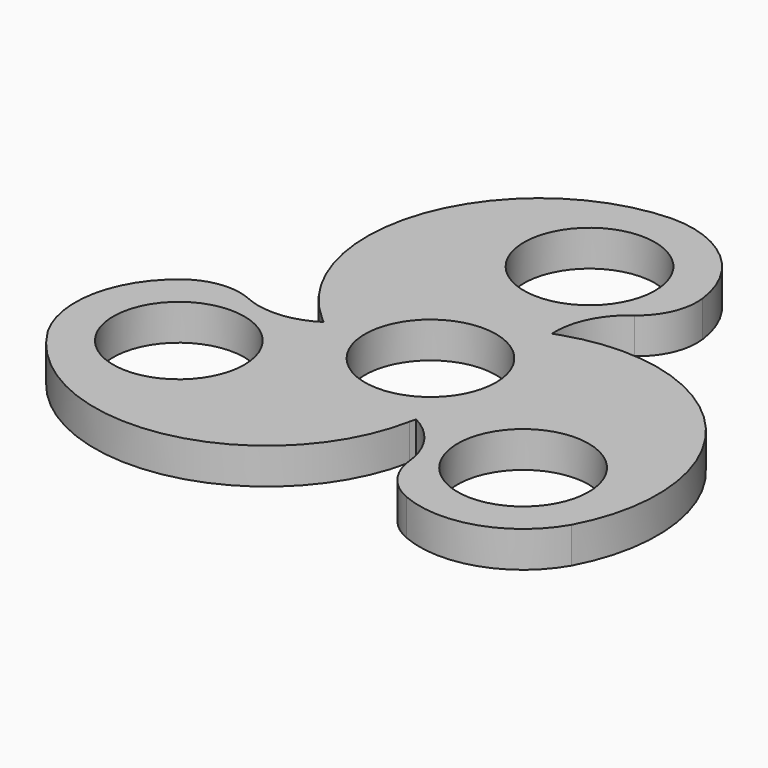
from build123d import *

# Parameters (mm, degrees)
F0_R     = 10.925
F1_DEPTH = 6


with BuildPart() as f1:
    # F0 (on Top) → F1 (new body)
    with BuildSketch(Plane.XY):
        with BuildLine():
            ThreePointArc((13.190539, 26.03913), (16.408651, 30.139565), (17.126113, 35.302419))
            ThreePointArc((17.126113, 35.302419), (11.416108, 46.088258), (0, 50.4023))
            ThreePointArc((0, 50.4023), (-26.232838, 31.366285), (-18.066576, 0))
            Line((-18.066576, 0), (-17.250004, -0.712184))
            ThreePointArc((-17.250004, -0.712184), (-21.89589, -2.538116), (-26.885113, -2.377059))
            ThreePointArc((-26.885113, -2.377059), (-28.0344, -2.041463), (-29.145817, -1.596223))
            ThreePointArc((-29.145817, -1.596223), (-34.305954, -0.859474), (-39.135848, -2.819561))
            ThreePointArc((-39.135848, -2.819561), (-45.621657, -13.157489), (-43.649672, -25.20115))
            ThreePointArc((-43.649672, -25.20115), (-14.04758, -38.401446), (9.033288, -15.646114))
            Line((9.033288, -15.646114), (9.297028, -14.611048))
            ThreePointArc((9.297028, -14.611048), (13.884433, -18.674856), (15.955278, -24.442907))
            ThreePointArc((15.955278, -24.442907), (16.034123, -24.981581), (16.142167, -25.515166))
            ThreePointArc((16.142167, -25.515166), (18.236516, -29.705909), (22.009735, -32.482858))
            ThreePointArc((22.009735, -32.482858), (34.205548, -32.930769), (43.649672, -25.20115))
            ThreePointArc((43.649672, -25.20115), (40.280418, 7.035162), (9.033288, 15.646114))
            Line((9.033288, 15.646114), (8.008233, 15.295034))
            ThreePointArc((8.008233, 15.295034), (9.217172, 21.333778), (13.190539, 26.03913))
        make_face()
        with Locations((-28.700288, -16.570119)):
            Circle(F0_R, mode=Mode.SUBTRACT)
        with Locations((28.700288, -16.570119)):
            Circle(F0_R, mode=Mode.SUBTRACT)
        Circle(F0_R, mode=Mode.SUBTRACT)
        with Locations((0, 33.140238)):
            Circle(F0_R, mode=Mode.SUBTRACT)
    extrude(amount=F1_DEPTH)


solid = f1.part
